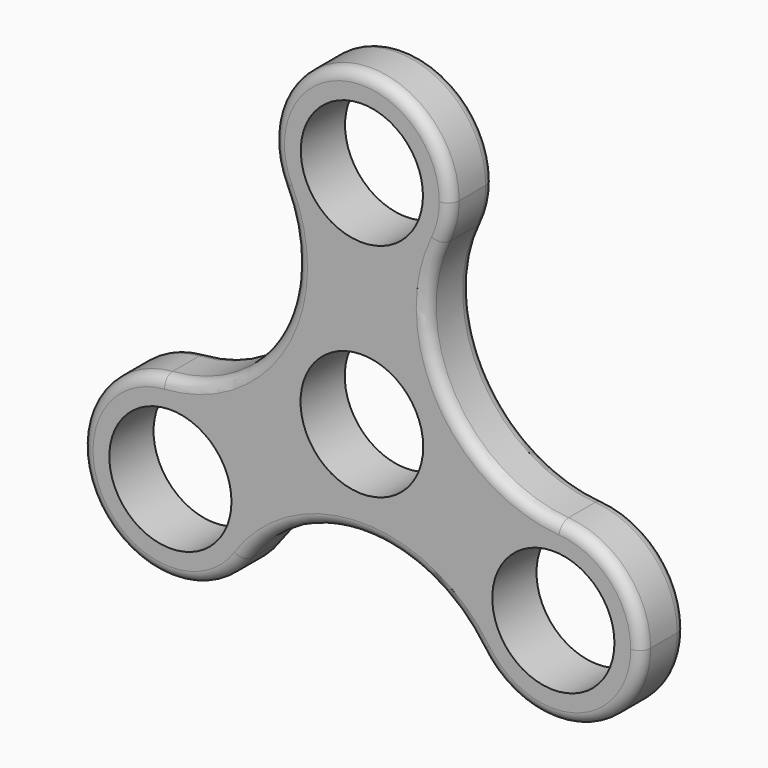
from build123d import *

# Parameters (mm, degrees)
F0_R     = 11.05
F0_R_2   = 11.1
F1_DEPTH = 10
F2_R     = 2
F3_R     = 2


with BuildPart() as f1:
    # F0 (on Front) → F1 (new body)
    with BuildSketch(Plane.XZ):
        with BuildLine():
            ThreePointArc((14.408607, 33.043561), (15.597078, 36.431927), (16, 40))
            ThreePointArc((16, 40), (-3.568073, 55.597078), (-14.408607, 33.043561))
            ThreePointArc((-14.408607, 33.043561), (0, 24), (14.408607, 33.043561))
        make_face()
        with Locations((0, 40)):
            Circle(F0_R, mode=Mode.SUBTRACT)
        with BuildLine():
            ThreePointArc((14.408607, 33.043561), (0, 24), (-14.408607, 33.043561))
            ThreePointArc((-14.408607, 33.043561), (-15.302407, 8.834849), (-35.820867, -4.043561))
            ThreePointArc((-35.820867, -4.043561), (-23.752435, -8.27657), (-18.641016, -20))
            ThreePointArc((-18.641016, -20), (-19.349514, -24.708497), (-21.41226, -29))
            ThreePointArc((-21.41226, -29), (0, -17.669697), (21.41226, -29))
            ThreePointArc((21.41226, -29), (20.78461, -12), (35.820867, -4.043561))
            ThreePointArc((35.820867, -4.043561), (15.302407, 8.834849), (14.408607, 33.043561))
        make_face()
        Circle(F0_R_2, mode=Mode.SUBTRACT)
        with BuildLine():
            ThreePointArc((-18.641016, -20), (-23.752435, -8.27657), (-35.820867, -4.043561))
            ThreePointArc((-35.820867, -4.043561), (-48.497423, -28), (-21.41226, -29))
            ThreePointArc((-21.41226, -29), (-19.349514, -24.708497), (-18.641016, -20))
        make_face()
        with Locations((-34.641016, -20)):
            Circle(F0_R, mode=Mode.SUBTRACT)
        with BuildLine():
            ThreePointArc((50.641016, -20), (46.364446, -9.111419), (35.820867, -4.043561))
            ThreePointArc((35.820867, -4.043561), (20.78461, -12), (21.41226, -29))
            ThreePointArc((21.41226, -29), (39.349514, -35.291503), (50.641016, -20))
        make_face()
        with Locations((34.641016, -20)):
            Circle(F0_R, mode=Mode.SUBTRACT)
    extrude(amount=F1_DEPTH)

    # F2
    f2_edges = [f1.edges().sort_by_distance(p)[0] for p in [
        (-15.302407, -10, 8.834849),
        (-48.497423, -10, -28),
        (0, -10, -17.669697),
        (48.497423, -10, -28),
        (15.302407, -10, 8.834849),
        (0, -10, 56),
    ]]
    fillet(f2_edges, radius=F2_R)

    # F3
    f3_edges = [f1.edges().sort_by_distance(p)[0] for p in [
        (48.497423, 0, -28),
        (0, 0, -17.669697),
        (-48.497423, 0, -28),
        (-15.302407, 0, 8.834849),
        (0, 0, 56),
        (15.302407, 0, 8.834849),
    ]]
    fillet(f3_edges, radius=F3_R)


solid = f1.part
